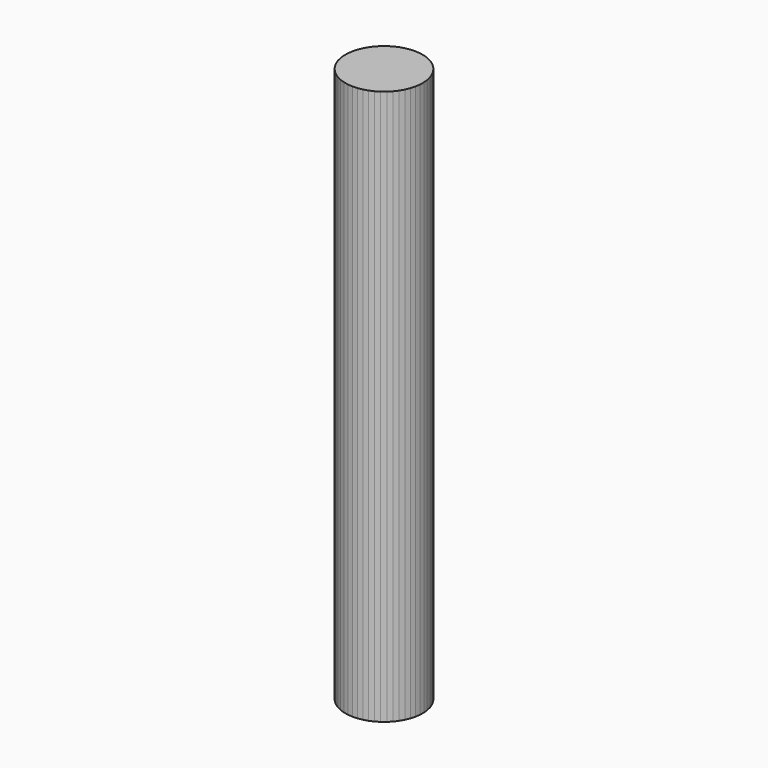
from build123d import *

# Parameters (mm, degrees)
F1_DEPTH = 25.4
F2_DEPTH = 25.4


with BuildPart() as f1:
    # F0 (on Top) → F1 (new body)
    with BuildSketch(Plane.XY):
        Polygon((-106.6199785918, -8.3398267185), (-106.3980976938, -7.9555177299), (-106.2261330812, -7.546430082), (-106.1067967386, -7.1190153315), (-106.0419706715, -6.6800140643), (-106.0326772256, -6.2363495925), (-106.0790629642, -5.7950187701), (-106.1803963564, -5.3629816475), (-106.3350793142, -4.9470517085), (-106.5406723948, -4.5537884165), (-106.7939332727, -4.1893937687), (-107.0908678723, -3.8596144862), (-107.4267933578, -3.5696513854), (-107.7964119835, -3.3240773576), (-108.193894643, -3.1267652519), (-108.6129727972, -2.9808267981), (-109.0470373333, -2.8885635328), (-109.4892427942, -2.8514305027), (-109.9326153358, -2.870013318), (-110.3701627081, -2.9440189166), (-110.7949845277, -3.0722801859), (-111.2003811007, -3.2527743692), (-111.579959081, -3.4826549652), (-111.9277322972, -3.7582966198), (-112.2382161578, -4.0753522993), (-112.5065141469, -4.4288218464), (-112.7283950449, -4.8131308349), (-112.9003596576, -5.2222184828), (-113.0196960001, -5.6496332333), (-113.0845220673, -6.0886345005), (-113.0938155131, -6.5322989723), (-113.0474297745, -6.9736297948), (-112.9460963823, -7.4056669173), (-112.7914134245, -7.8215968563), (-112.5858203439, -8.2148601483), (-112.3325594661, -8.5792547962), (-112.0356248664, -8.9090340786), (-111.6996993809, -9.1989971794), (-111.3300807552, -9.4445712072), (-110.9325980957, -9.6418833129), (-110.5135199415, -9.7878217667), (-110.0794554055, -9.8800850321), (-109.6372499445, -9.9172180621), (-109.193877403, -9.8986352468), (-108.7563300307, -9.8246296482), (-108.3315082111, -9.6963683789), (-107.926111638, -9.5158741957), (-107.5465336577, -9.2859935996), (-107.1987604415, -9.010351945), (-106.8882765809, -8.6932962655), align=None)
    extrude(amount=F1_DEPTH)

    # F2 (add): a face of the model
    f2_faces = [f1.faces().sort_by_distance(p)[0] for p in [
        (-109.5632463694, -6.3843242824, 25.4),
    ]]
    extrude(f2_faces, amount=F2_DEPTH)


solid = f1.part
